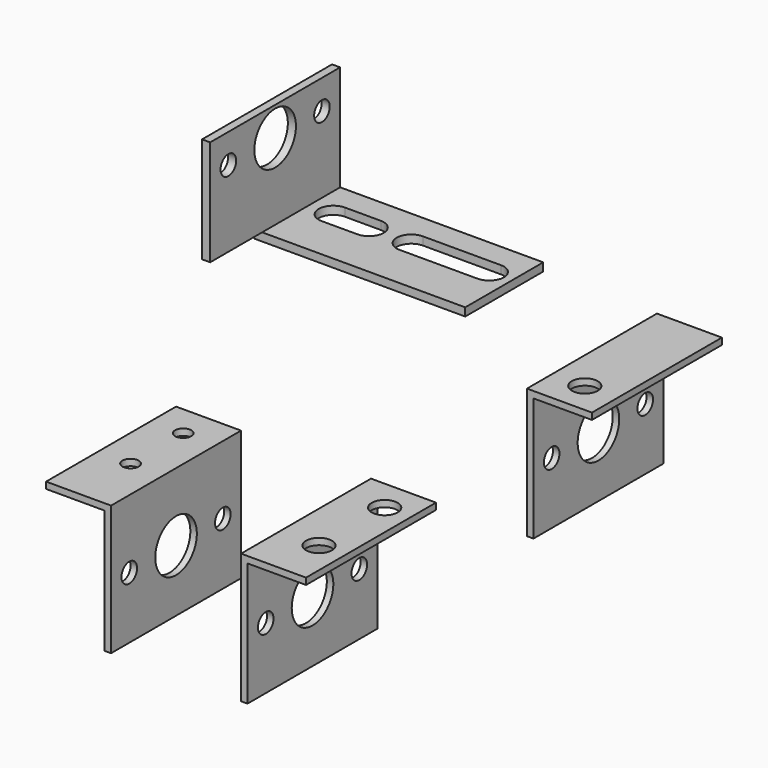
from build123d import *

# Parameters (mm, degrees)
F2_W      = 18
F2_H      = 2
F2_W_2    = 2
F3_DEPTH  = 50
F2_H_2    = 38
F4_DEPTH  = 50
F5_R      = 3
F5_R_2    = 8
F7_DEPTH  = 5
F6_R      = 2.5
F8_DEPTH  = 5
F9_W      = 18
F9_H      = 2
F9_W_2    = 2
F10_DEPTH = 50
F9_H_2    = 38
F11_DEPTH = 50
F12_R     = 3
F12_R_2   = 8
F14_DEPTH = 5
F13_R     = 4
F15_DEPTH = 5
F16_W     = 62.5
F16_H     = 2.5
F16_W_2   = 2.5
F17_DEPTH = 30
F16_H_2   = 32.5
F18_DEPTH = 50
F19_R     = 3
F19_R_2   = 8
F21_DEPTH = 5
F22_DEPTH = 5
F23_W     = 18
F23_H     = 2
F23_W_2   = 2
F24_DEPTH = 50
F23_H_2   = 38
F25_DEPTH = 50
F26_R     = 3
F26_R_2   = 8
F28_DEPTH = 5
F27_R     = 4
F29_DEPTH = 5


with BuildPart() as f3:
    # F2 (on offset) → F3 (new body)
    with BuildSketch(Plane.XZ.offset(80)):
        with Locations((-31, -1)):
            Rectangle(F2_W, F2_H)
        with Locations((-21, -1)):
            Rectangle(F2_W_2, F2_H)
    extrude(amount=-F3_DEPTH)

    # F2 (on offset) → F4 (join)
    with BuildSketch(Plane.XZ.offset(80)):
        with Locations((-21, -21)):
            Rectangle(F2_W_2, F2_H_2)
        with Locations((-21, -1)):
            Rectangle(F2_W_2, F2_H)
    extrude(amount=-F4_DEPTH)

    # F5 (on face) → F7 (cut, symmetric)
    with BuildSketch(Plane.YZ.offset(-20)):
        with Locations((-73, -21)):
            Circle(F5_R)
        with Locations((-55, -21)):
            Circle(F5_R_2)
        with Locations((-37, -21)):
            Circle(F5_R)
    extrude(amount=F7_DEPTH, both=True, mode=Mode.SUBTRACT)

    # F6 (on face) → F8 (cut, symmetric)
    with BuildSketch(Plane.XY):
        with Locations((-30, -39.75)):
            Circle(F6_R)
        with Locations((-30, -60)):
            Circle(F6_R)
    extrude(amount=F8_DEPTH, both=True, mode=Mode.SUBTRACT)


with BuildPart() as f10:
    # F9 (on offset) → F10 (new body)
    with BuildSketch(Plane.XZ.offset(80)):
        with Locations((31, -1)):
            Rectangle(F9_W, F9_H)
        with Locations((21, -1)):
            Rectangle(F9_W_2, F9_H)
    extrude(amount=-F10_DEPTH)

    # F9 (on offset) → F11 (join)
    with BuildSketch(Plane.XZ.offset(80)):
        with Locations((21, -1)):
            Rectangle(F9_W_2, F9_H)
        with Locations((21, -21)):
            Rectangle(F9_W_2, F9_H_2)
    extrude(amount=-F11_DEPTH)

    # F12 (on face) → F14 (cut, symmetric)
    with BuildSketch(Plane(origin=(20, 0, 0), x_dir=(0, -1, 0), z_dir=(-1, 0, 0))):
        with Locations((37, -21)):
            Circle(F12_R)
        with Locations((55, -21)):
            Circle(F12_R_2)
        with Locations((73, -21)):
            Circle(F12_R)
    extrude(amount=F14_DEPTH, both=True, mode=Mode.SUBTRACT)

    # F13 (on face) → F15 (cut, symmetric)
    with BuildSketch(Plane.XY):
        with Locations((32, -65)):
            Circle(F13_R)
        with Locations((32, -39.75)):
            Circle(F13_R)
    extrude(amount=F15_DEPTH, both=True, mode=Mode.SUBTRACT)


with BuildPart() as f17:
    # F16 (on offset) → F17 (new body)
    with BuildSketch(Plane.XZ.offset(-80)):
        with Locations((-46.25, 1.25)):
            Rectangle(F16_W, F16_H)
        with Locations((-78.75, 1.25)):
            Rectangle(F16_W_2, F16_H)
    extrude(amount=F17_DEPTH)

    # F16 (on offset) → F18 (join)
    with BuildSketch(Plane.XZ.offset(-80)):
        with Locations((-78.75, 18.75)):
            Rectangle(F16_W_2, F16_H_2)
    extrude(amount=F18_DEPTH)

    # F19 (on face) → F21 (cut, symmetric)
    with BuildSketch(Plane(origin=(-80, 0, 0), x_dir=(0, -1, 0), z_dir=(-1, 0, 0))):
        with Locations((-73, 26)):
            Circle(F19_R)
        with Locations((-55, 26)):
            Circle(F19_R_2)
        with Locations((-37, 26)):
            Circle(F19_R)
    extrude(amount=F21_DEPTH, both=True, mode=Mode.SUBTRACT)

    # F20 (on face) → F22 (cut, symmetric)
    with BuildSketch(Plane(origin=(0, 0, 0), x_dir=(1, 0, 0), z_dir=(0, 0, -1))):
        with BuildLine():
            Line((-59, -63.5), (-70, -63.5))
            ThreePointArc((-70, -63.5), (-74.5, -68), (-70, -72.5))
            Line((-70, -72.5), (-59, -72.5))
            ThreePointArc((-59, -72.5), (-54.5, -68), (-59, -63.5))
        make_face()
        with BuildLine():
            Line((-22, -63.5), (-46, -63.5))
            ThreePointArc((-46, -63.5), (-50.5, -68), (-46, -72.5))
            Line((-46, -72.5), (-22, -72.5))
            ThreePointArc((-22, -72.5), (-17.5, -68), (-22, -63.5))
        make_face()
    extrude(amount=F22_DEPTH, both=True, mode=Mode.SUBTRACT)


with BuildPart() as f24:
    # F23 (on offset) → F24 (new body)
    with BuildSketch(Plane.XZ.offset(-80)):
        with Locations((31, -1)):
            Rectangle(F23_W, F23_H)
        with Locations((21, -1)):
            Rectangle(F23_W_2, F23_H)
    extrude(amount=F24_DEPTH)

    # F23 (on offset) → F25 (join)
    with BuildSketch(Plane.XZ.offset(-80)):
        with Locations((21, -21)):
            Rectangle(F23_W_2, F23_H_2)
        with Locations((21, -1)):
            Rectangle(F23_W_2, F23_H)
    extrude(amount=F25_DEPTH)

    # F26 (on face) → F28 (cut, symmetric)
    with BuildSketch(Plane(origin=(20, 0, 0), x_dir=(0, -1, 0), z_dir=(-1, 0, 0))):
        with Locations((-73, -21)):
            Circle(F26_R)
        with Locations((-55, -21)):
            Circle(F26_R_2)
        with Locations((-37, -21)):
            Circle(F26_R)
    extrude(amount=F28_DEPTH, both=True, mode=Mode.SUBTRACT)

    # F27 (on face) → F29 (cut, symmetric)
    with BuildSketch(Plane.XY):
        with Locations((30, 39.75)):
            Circle(F27_R)
    extrude(amount=F29_DEPTH, both=True, mode=Mode.SUBTRACT)


solid = Compound([f3.part, f10.part, f17.part, f24.part])
